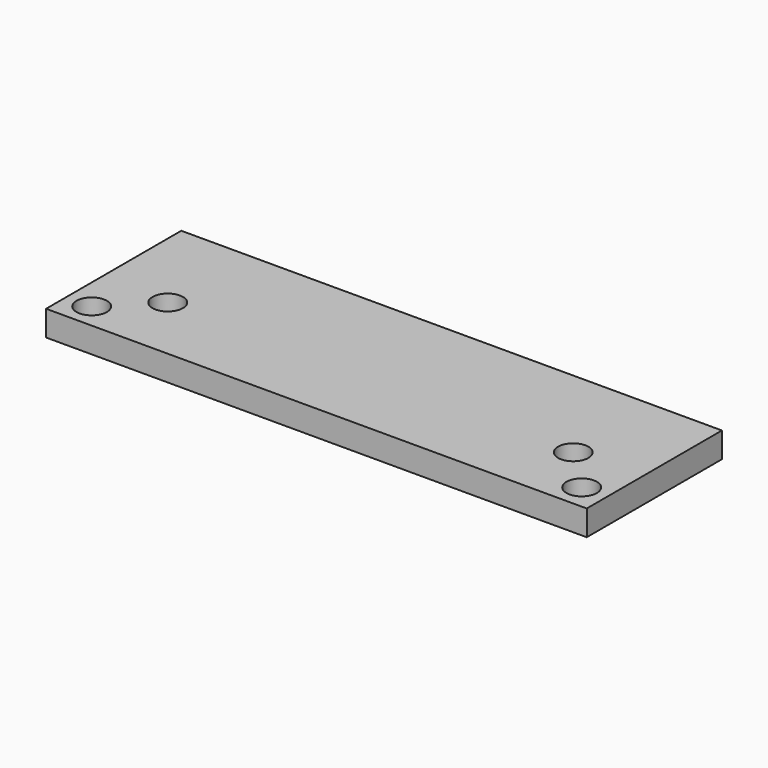
from build123d import *

# Parameters (mm, degrees)
SKETCH_W  = 64
SKETCH_H  = 20
SKETCH_R  = 1.8
PAD_DEPTH = 3


with BuildPart() as part:
    # Sketch → Pad (new body)
    with BuildSketch(Plane.XY):
        with Locations((160.7081, -28.010357)):
            Rectangle(SKETCH_W, SKETCH_H)
        with Locations((131.7081, -35.010357)):
            Circle(SKETCH_R, mode=Mode.SUBTRACT)
        with Locations((189.7081, -35.010357)):
            Circle(SKETCH_R, mode=Mode.SUBTRACT)
        with Locations((184.7081, -30.010357)):
            Circle(SKETCH_R, mode=Mode.SUBTRACT)
        with Locations((136.7081, -30.010357)):
            Circle(SKETCH_R, mode=Mode.SUBTRACT)
    extrude(amount=PAD_DEPTH)


solid = part.part
